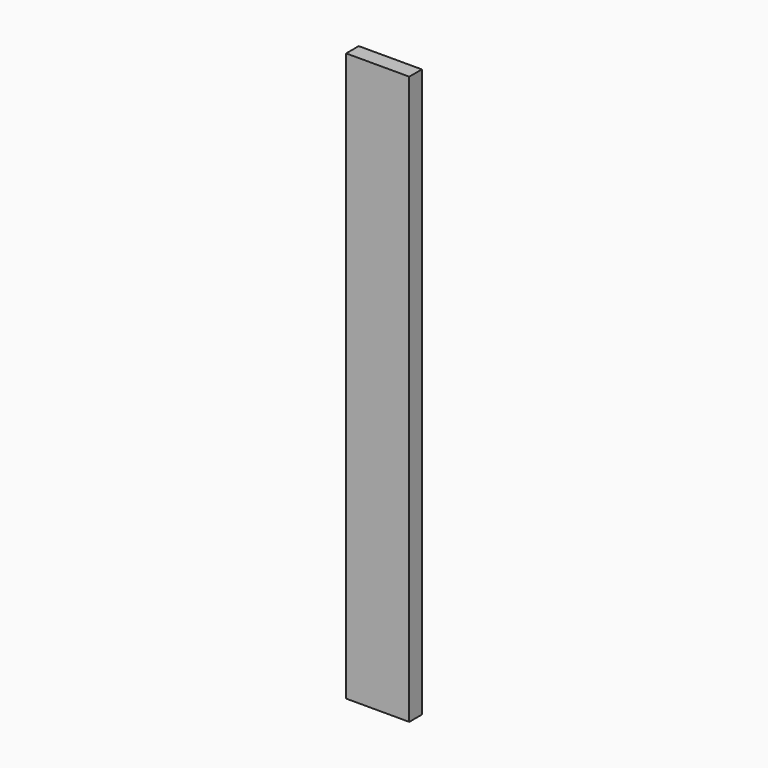
from build123d import *

# Parameters (mm, degrees)
F0_W     = 76.2
F0_H     = 342.9
F1_DEPTH = 9.525


with BuildPart() as f1:
    # F0 (on Front) → F1 (new body, symmetric)
    with BuildSketch(Plane.XZ):
        with Locations((-32.0039953259, 171.45)):
            Rectangle(F0_W, F0_H)
        with Locations((-32.0039953259, -171.45)):
            Rectangle(F0_W, F0_H)
    extrude(amount=F1_DEPTH, both=True)


solid = f1.part
